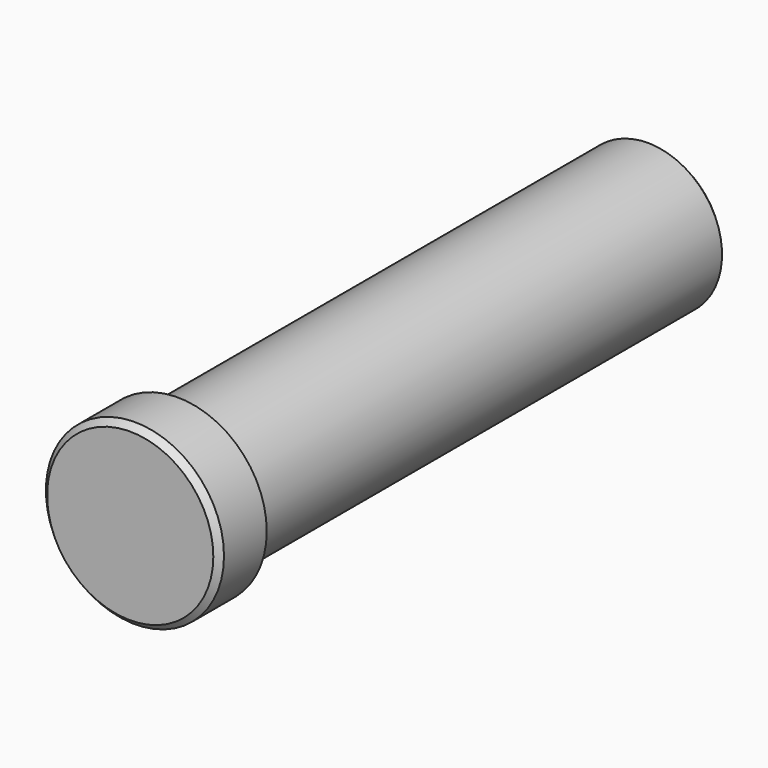
from build123d import *

# Parameters (mm, degrees)
F0_R     = 15
F1_DEPTH = 5
F2_SIZE  = 1
F3_R     = 12.5
F4_DEPTH = 5
F5_DEPTH = 100
F6_SIZE  = 1


with BuildPart() as f1:
    # F0 (on Front) → F1 (new body, symmetric)
    with BuildSketch(Plane.XZ):
        Circle(F0_R)
        Circle(F0_R)
    extrude(amount=F1_DEPTH, both=True)

    # F2
    f2_edges = [f1.edges().sort_by_distance(p)[0] for p in [
        (-15, -5, 0),
    ]]
    chamfer(f2_edges, length=F2_SIZE)

    # F3 (on face) → F4 (cut)
    with BuildSketch(Plane(origin=(0, 5, 0), x_dir=(-1, 0, 0), z_dir=(0, 1, 0))):
        Circle(F3_R)
    extrude(amount=-F4_DEPTH, mode=Mode.SUBTRACT)


with BuildPart() as f5:
    # F3 (on face) → F5 (new body)
    with BuildSketch(Plane(origin=(0, 5, 0), x_dir=(-1, 0, 0), z_dir=(0, 1, 0))):
        Circle(F3_R)
    extrude(amount=F5_DEPTH)

    # F6
    f6_edges = [f5.edges().sort_by_distance(p)[0] for p in [
        (12.5, 105, 0),
    ]]
    chamfer(f6_edges, length=F6_SIZE)


solid = Compound([f1.part, f5.part])
